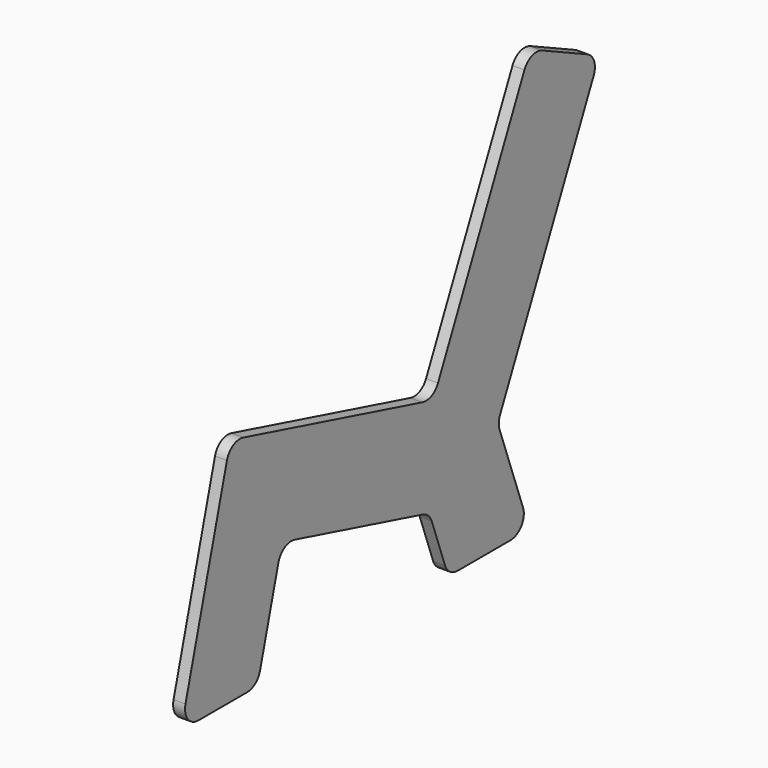
from build123d import *

# Parameters (mm, degrees)
F1_DEPTH = 25
F2_R     = 35


with BuildPart() as f1:
    # F0 (on Right) → F1 (new body)
    with BuildSketch(Plane.YZ):
        Polygon((129.409523, 482.962913), (0, 0), (200, 0), (264.248254, 239.777748), (650.386361, 136.312354), (700, 0), (912.835554, 0), (829.404047, 229.226183), (1095.501241, 799.873458), (914.239684, 884.397111), (660.668727, 340.612438), align=None)
    extrude(amount=F1_DEPTH)

    # F2
    f2_edges = [f1.edges().sort_by_distance(p)[0] for p in [
        (12.5, 0, 0),
        (12.5, 129.409523, 482.962913),
        (12.5, 660.668727, 340.612438),
        (12.5, 914.239684, 884.397111),
        (12.5, 1095.501241, 799.873458),
        (12.5, 829.404047, 229.226183),
        (12.5, 912.835554, 0),
        (12.5, 700, 0),
        (12.5, 650.386361, 136.312354),
        (12.5, 200, 0),
        (12.5, 264.248254, 239.777748),
    ]]
    fillet(f2_edges, radius=F2_R)


solid = f1.part
